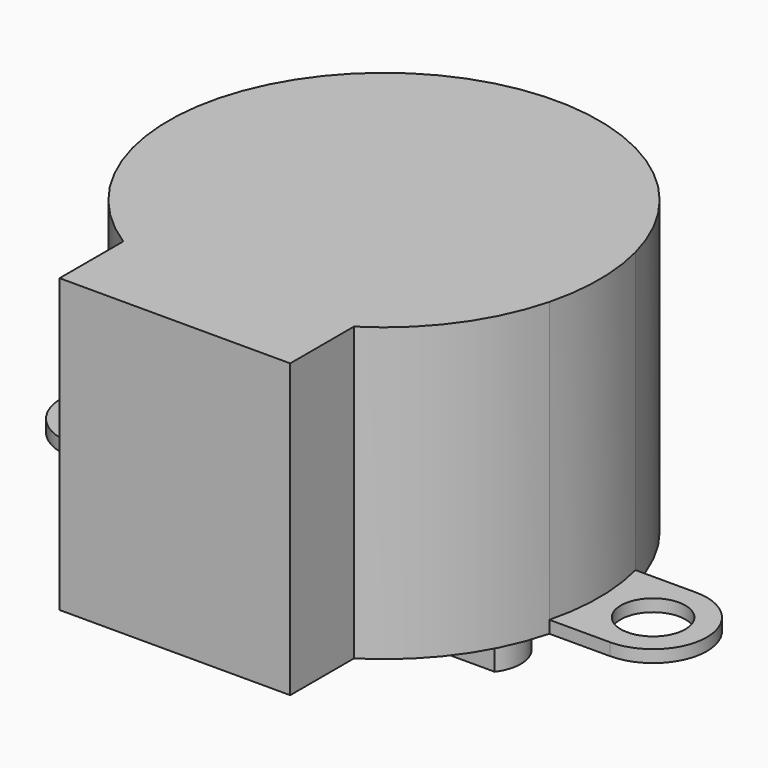
from build123d import *

# Parameters (mm, degrees)
F0_R     = 4.5
F0_R_2   = 2.5
F1_DEPTH = 19
F0_R_3   = 2.1
F2_DEPTH = 0.8
F3_DEPTH = 1.5
F4_DEPTH = 10
F6_DEPTH = 6


with BuildPart() as f1:
    # F0 (on Top) → F1 (new body)
    with BuildSketch(Plane.XY):
        with BuildLine():
            Line((7.5, -17), (7.5, -11.8215904175))
            ThreePointArc((7.5, -11.8215904175), (11.3201202815, -8.2374071656), (13.5554417117, -3.5))
            ThreePointArc((13.5554417117, -3.5), (14, 0), (13.5554417117, 3.5))
            ThreePointArc((13.5554417117, 3.5), (0, 14), (-13.5554417117, 3.5))
            ThreePointArc((-13.5554417117, 3.5), (-14, 0), (-13.5554417117, -3.5))
            ThreePointArc((-13.5554417117, -3.5), (-11.3201202815, -8.2374071656), (-7.5, -11.8215904175))
            Line((-7.5, -11.8215904175), (-7.5, -17))
            Line((-7.5, -17), (7.5, -17))
        make_face()
        with Locations((0, 8)):
            Circle(F0_R, mode=Mode.SUBTRACT)
        with Locations((0, 8)):
            Circle(F0_R)
        with Locations((0, 8)):
            Circle(F0_R_2, mode=Mode.SUBTRACT)
        with Locations((0, 8)):
            Circle(F0_R_2)
    extrude(amount=F1_DEPTH)

    # F0 (on Top) → F2 (join)
    with BuildSketch(Plane.XY):
        with BuildLine():
            ThreePointArc((-13.5554417117, -3.5), (-14, 0), (-13.5554417117, 3.5))
            Line((-13.5554417117, 3.5), (-17.5, 3.5))
            ThreePointArc((-17.5, 3.5), (-21, 0), (-17.5, -3.5))
            Line((-17.5, -3.5), (-13.5554417117, -3.5))
        make_face()
        with Locations((-17.5, 0)):
            Circle(F0_R_3, mode=Mode.SUBTRACT)
        with BuildLine():
            ThreePointArc((13.5554417117, 3.5), (14, 0), (13.5554417117, -3.5))
            Line((13.5554417117, -3.5), (17.5, -3.5))
            ThreePointArc((17.5, -3.5), (21, 0), (17.5, 3.5))
            Line((17.5, 3.5), (13.5554417117, 3.5))
        make_face()
        with Locations((17.5, 0)):
            Circle(F0_R_3, mode=Mode.SUBTRACT)
    extrude(amount=F2_DEPTH)

    # F0 (on Top) → F3 (join)
    with BuildSketch(Plane.XY):
        with Locations((0, 8)):
            Circle(F0_R)
        with Locations((0, 8)):
            Circle(F0_R_2, mode=Mode.SUBTRACT)
    extrude(amount=-F3_DEPTH)


with BuildPart() as f4:
    # F0 (on Top) → F4 (new body)
    with BuildSketch(Plane.XY):
        with Locations((0, 8)):
            Circle(F0_R_2)
    extrude(amount=-F4_DEPTH)


with BuildPart() as f6:
    # F5 (on face) → F6 (new body)
    with BuildSketch(Plane(origin=(0, 0, -10), x_dir=(1, 0, 0), z_dir=(0, 0, -1))):
        with BuildLine():
            Line((2, -6.5), (2.9143868635, -6.5))
            Line((2.9143868635, -6.5), (2.9143868635, -5.0171855837))
            Line((2.9143868635, -5.0171855837), (-2.9143868635, -5.0171855837))
            Line((-2.9143868635, -5.0171855837), (-2.9143868635, -6.5))
            Line((-2.9143868635, -6.5), (-2, -6.5))
            ThreePointArc((-2, -6.5), (0, -5.5), (2, -6.5))
        make_face()
        with BuildLine():
            Line((-2, -6.5), (2, -6.5))
            ThreePointArc((2, -6.5), (0, -5.5), (-2, -6.5))
        make_face()
    extrude(amount=-F6_DEPTH)


with BuildPart() as f6b:
    # F5 (on face) → F6, piece 2 (new body)
    with BuildSketch(Plane(origin=(0, 0, -10), x_dir=(1, 0, 0), z_dir=(0, 0, -1))):
        with BuildLine():
            ThreePointArc((-2, -9.5), (0, -10.5), (2, -9.5))
            Line((2, -9.5), (-2, -9.5))
        make_face()
        with BuildLine():
            Line((2.9143868635, -10.8300484717), (2.9143868635, -9.5))
            Line((2.9143868635, -9.5), (2, -9.5))
            ThreePointArc((2, -9.5), (0, -10.5), (-2, -9.5))
            Line((-2, -9.5), (-2.9143868635, -9.5))
            Line((-2.9143868635, -9.5), (-2.9143868635, -10.8300484717))
            Line((-2.9143868635, -10.8300484717), (2.9143868635, -10.8300484717))
        make_face()
    extrude(amount=-F6_DEPTH)


with BuildPart() as f4_1:
    add(f4.part)

    # F7: cut F6, F6b
    add(f6.part, mode=Mode.SUBTRACT)
    add(f6b.part, mode=Mode.SUBTRACT)


solid = Compound([f1.part, f4_1.part])
